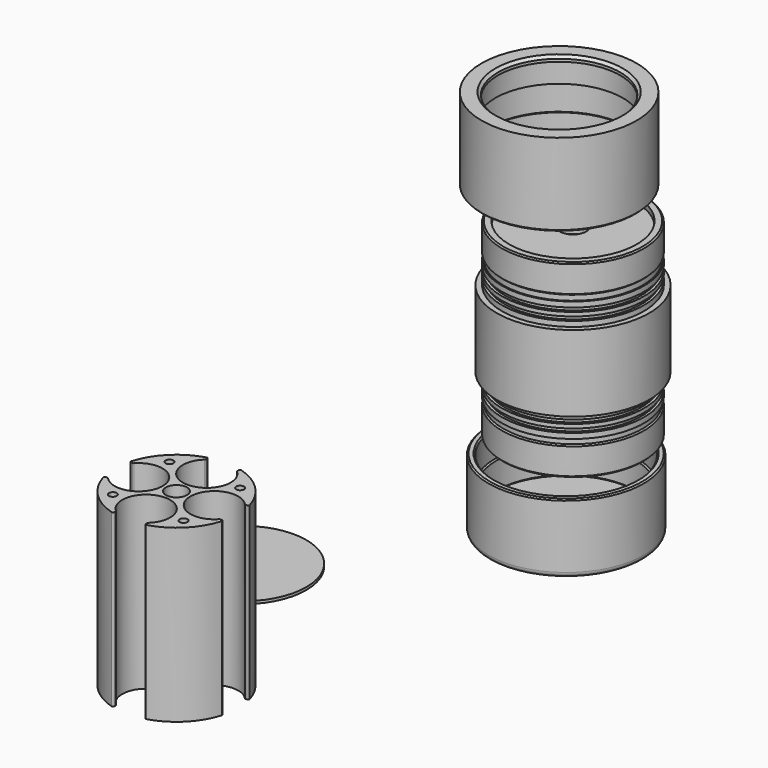
from build123d import *

# Parameters (mm, degrees)
F0_R     = 24.25
F1_DEPTH = 1
F2_R     = 1.5
F2_R_2   = 4
F3_DEPTH = 65
F8_SIZE  = 0.5
F9_SIZE  = 0.5
F12_SIZE = 0.5


with BuildPart() as f1:
    # F0 (on Top) → F1 (new body)
    with BuildSketch(Plane.XY):
        with Locations((-74.5218619704, -7.7011999674)):
            Circle(F0_R)
    extrude(amount=F1_DEPTH)


with BuildPart() as f3:
    # F2 (on Top) → F3 (new body)
    with BuildSketch(Plane.XY):
        with BuildLine():
            ThreePointArc((-48.105911685, -57.5828771619), (-48.3064556564, -57.1824697607), (-48.7472160328, -57.1032595212))
            ThreePointArc((-48.7472160328, -57.1032595212), (-58.7229210429, -63.0282792769), (-64.6479407986, -73.003984287))
            ThreePointArc((-64.6479407986, -73.003984287), (-64.5687305591, -73.4447446634), (-64.1683231579, -73.6452886348))
            Line((-64.1683231579, -73.6452886348), (-63.5706126695, -73.6452886348))
            ThreePointArc((-63.5706126695, -73.6452886348), (-63.3697032786, -73.6031482385), (-63.2026594932, -73.4838303015))
            ThreePointArc((-63.2026594932, -73.4838303015), (-47.405911685, -79.6452886348), (-63.2026594932, -85.8067469682))
            ThreePointArc((-63.2026594932, -85.8067469682), (-63.3697032786, -85.6874290312), (-63.5706126695, -85.6452886348))
            Line((-63.5706126695, -85.6452886348), (-64.1683231579, -85.6452886348))
            ThreePointArc((-64.1683231579, -85.6452886348), (-64.5687305591, -85.8458326063), (-64.6479407986, -86.2865929826))
            ThreePointArc((-64.6479407986, -86.2865929826), (-58.7229210429, -96.2622979927), (-48.7472160328, -102.1873177484))
            ThreePointArc((-48.7472160328, -102.1873177484), (-48.3064556564, -102.108107509), (-48.105911685, -101.7077001077))
            Line((-48.105911685, -101.7077001077), (-48.105911685, -101.1099896193))
            ThreePointArc((-48.105911685, -101.1099896193), (-48.1480520813, -100.9090802284), (-48.2673700183, -100.742036443))
            ThreePointArc((-48.2673700183, -100.742036443), (-42.105911685, -84.9452886348), (-35.9444533517, -100.742036443))
            ThreePointArc((-35.9444533517, -100.742036443), (-36.0637712887, -100.9090802284), (-36.105911685, -101.1099896193))
            Line((-36.105911685, -101.1099896193), (-36.105911685, -101.7077001077))
            ThreePointArc((-36.105911685, -101.7077001077), (-35.9053677136, -102.108107509), (-35.4646073372, -102.1873177484))
            ThreePointArc((-35.4646073372, -102.1873177484), (-25.4889023271, -96.2622979927), (-19.5638825714, -86.2865929826))
            ThreePointArc((-19.5638825714, -86.2865929826), (-19.6430928109, -85.8458326063), (-20.0435002121, -85.6452886348))
            Line((-20.0435002121, -85.6452886348), (-20.6412107005, -85.6452886348))
            ThreePointArc((-20.6412107005, -85.6452886348), (-20.8421200914, -85.6874290312), (-21.0091638768, -85.8067469682))
            ThreePointArc((-21.0091638768, -85.8067469682), (-36.805911685, -79.6452886348), (-21.0091638768, -73.4838303015))
            ThreePointArc((-21.0091638768, -73.4838303015), (-20.8421200914, -73.6031482385), (-20.6412107005, -73.6452886348))
            Line((-20.6412107005, -73.6452886348), (-20.0435002121, -73.6452886348))
            ThreePointArc((-20.0435002121, -73.6452886348), (-19.6430928109, -73.4447446634), (-19.5638825714, -73.003984287))
            ThreePointArc((-19.5638825714, -73.003984287), (-25.4889023271, -63.0282792769), (-35.4646073372, -57.1032595212))
            ThreePointArc((-35.4646073372, -57.1032595212), (-35.9053677136, -57.1824697607), (-36.105911685, -57.5828771619))
            Line((-36.105911685, -57.5828771619), (-36.105911685, -58.1805876503))
            ThreePointArc((-36.105911685, -58.1805876503), (-36.0637712887, -58.3814970412), (-35.9444533517, -58.5485408266))
            ThreePointArc((-35.9444533517, -58.5485408266), (-42.105911685, -74.3452886348), (-48.2673700183, -58.5485408266))
            ThreePointArc((-48.2673700183, -58.5485408266), (-48.1480520813, -58.3814970412), (-48.105911685, -58.1805876503))
            Line((-48.105911685, -58.1805876503), (-48.105911685, -57.5828771619))
        make_face()
        with Locations((-55.5409405275, -93.0803174774)):
            Circle(F2_R, mode=Mode.SUBTRACT)
        with Locations((-28.6708828425, -93.0803174774)):
            Circle(F2_R, mode=Mode.SUBTRACT)
        with Locations((-42.105911685, -79.6452886348)):
            Circle(F2_R_2, mode=Mode.SUBTRACT)
        with Locations((-55.5409405275, -66.2102597923)):
            Circle(F2_R, mode=Mode.SUBTRACT)
        with Locations((-28.6708828425, -66.2102597923)):
            Circle(F2_R, mode=Mode.SUBTRACT)
    extrude(amount=F3_DEPTH)


with BuildPart() as f5:
    # F4 (on Front) → F5 (revolve)
    with BuildSketch(Plane.XZ):
        Polygon((18.4608697524, 79.4791738288), (21.4608697524, 79.4791738288), (21.4608697524, 144.4791738288), (39.9608697524, 144.4791738288), (39.9608697524, 149.4791738288), (20.7108697524, 149.4791738288), (20.7108697524, 151.4791738288), (18.4608697524, 151.4791738288), (17.9608697524, 150.9791738288), (17.9608697524, 140.9791738288), (18.4608697524, 140.4791738288), (18.4608697524, 138.4791738288), (17.9608697524, 138.4791738288), (17.9608697524, 136.4791738288), (18.9608697524, 136.4791738288), (18.9608697524, 134.9791738288), (17.9608697524, 134.9791738288), (17.9608697524, 133.4791738288), (18.9608697524, 133.4791738288), (18.9608697524, 131.9791738288), (17.9608697524, 131.9791738288), (17.9608697524, 129.9791738288), (15.9608697524, 129.9791738288), (15.9608697524, 100.9791738288), (17.9608697524, 100.9791738288), (17.9608697524, 98.9791738288), (18.9608697524, 98.9791738288), (18.9608697524, 97.4791738288), (17.9608697524, 97.4791738288), (17.9608697524, 95.9791738288), (18.9608697524, 95.9791738288), (18.9608697524, 94.4791738288), (17.9608697524, 94.4791738288), (17.9608697524, 92.4791738288), (18.4608697524, 92.4791738288), (18.4608697524, 90.4791738288), (17.9608697524, 89.9791738288), (17.9608697524, 79.9791738288), align=None)
    revolve(axis=Axis((44.9608697524, 0, 104.6637222171), (0, 0, -1)))


with BuildPart() as f7:
    # F6 (on Front) → F7 (revolve)
    with BuildSketch(Plane.XZ):
        with BuildLine():
            Line((42.3567502275, 46.2404132718), (42.3567502275, 51.2404132718))
            Line((42.3567502275, 51.2404132718), (15.8567502275, 51.2404132718))
            Line((15.8567502275, 51.2404132718), (15.3567502275, 51.2404132718))
            Line((15.3567502275, 51.2404132718), (15.8567502275, 51.7404132718))
            Line((15.8567502275, 51.7404132718), (15.8567502275, 61.7404132718))
            Line((15.8567502275, 61.7404132718), (15.3567502275, 62.2404132718))
            Line((15.3567502275, 62.2404132718), (15.3567502275, 72.7404132718))
            Line((15.3567502275, 72.7404132718), (12.8567502275, 72.7404132718))
            Line((12.8567502275, 72.7404132718), (12.8567502275, 48.2404132718))
            ThreePointArc((12.8567502275, 48.2404132718), (13.4425366651, 46.8261997095), (14.8567502275, 46.2404132718))
            Line((14.8567502275, 46.2404132718), (42.3567502275, 46.2404132718))
        make_face()
    revolve(axis=Axis((42.3567502275, 0, 61.1060392112), (0, 0, -1)))

    # F8
    f8_edges = [f7.edges().sort_by_distance(p)[0] for p in [
        (69.35675, 0, 72.740413),
    ]]
    chamfer(f8_edges, length=F8_SIZE)

    # F9
    f9_edges = [f7.edges().sort_by_distance(p)[0] for p in [
        (71.85675, 0, 72.740413),
    ]]
    chamfer(f9_edges, length=F9_SIZE)


with BuildPart() as f11:
    # F10 (on Front) → F11 (revolve)
    with BuildSketch(Plane.XZ):
        Polygon((10.1886256039, 161.4975384899), (12.6886256039, 161.4975384899), (12.6886256039, 171.9975384899), (12.6886256039, 182.9975384899), (15.4386256039, 182.9975384899), (15.4386256039, 190.8975384899), (16.4386256039, 190.8975384899), (16.4386256039, 191.8975384899), (15.4386256039, 192.8975384899), (10.1886256039, 192.8975384899), (10.1886256039, 191.3968953558), align=None)
        Polygon((12.6886256039, 182.9975384899), (12.6886256039, 171.9975384899), (13.1886256039, 172.4975384899), (13.1886256039, 182.4975384899), align=None)
    revolve(axis=Axis((39.6886256039, 0, 177.3419305682), (0, 0, -1)))

    # F12
    f12_edges = [f11.edges().sort_by_distance(p)[0] for p in [
        (69.188626, 0, 161.497538),
        (66.688626, 0, 161.497538),
    ]]
    chamfer(f12_edges, length=F12_SIZE)


solid = Compound([f1.part, f3.part, f5.part, f7.part, f11.part])
